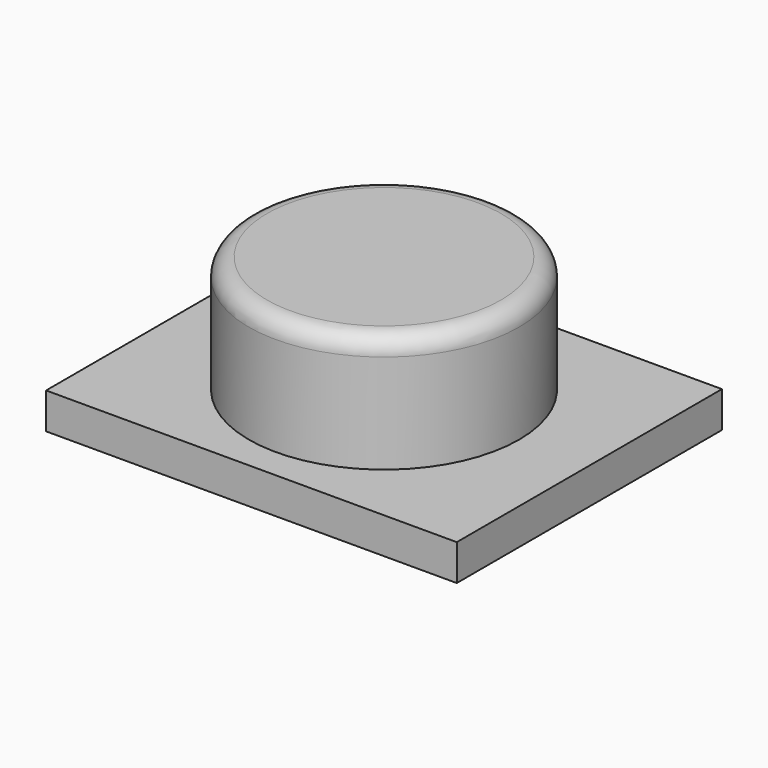
from build123d import *

# Parameters (mm, degrees)
SKETCH010_R  = 0.75
PAD007_DEPTH = 0.65
SKETCH011_W  = 2.28
SKETCH011_H  = 1.84
PAD008_DEPTH = 0.2
FILLET001_R  = 0.1


with BuildPart() as part:
    # Sketch010 (on DatumPlane) → Pad007 (new body)
    with BuildSketch(Plane.XY.offset(1.7)):
        Circle(SKETCH010_R)
    extrude(amount=-PAD007_DEPTH)

    # Sketch011 (on Face3 of Pad007) → Pad008 (join)
    with BuildSketch(Plane(origin=(0, 0, 1.05), x_dir=(1, 0, 0), z_dir=(0, 0, -1))):
        Rectangle(SKETCH011_W, SKETCH011_H)
    extrude(amount=PAD008_DEPTH)

    # Fillet001
    fillet001_edges = [part.edges().sort_by_distance(p)[0] for p in [
        (-0.75, 0, 1.7),
    ]]
    fillet(fillet001_edges, radius=FILLET001_R)


solid = part.part
